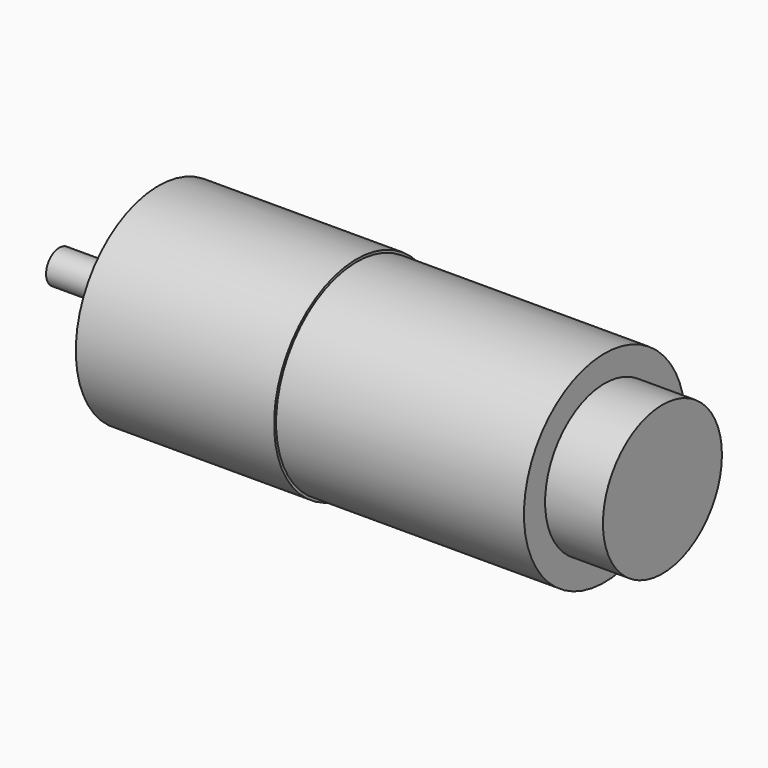
from build123d import *

# Parameters (mm, degrees)
SKETCH_R        = 12.5
PAD_DEPTH       = 24
SKETCH001_R     = 12.2
PAD001_DEPTH    = 30
SKETCH002_R     = 3.5
PAD002_DEPTH    = 2.5
SKETCH003_R     = 2
PAD003_DEPTH    = 9.5
SKETCH004_R     = 9
PAD004_DEPTH    = 7
SKETCH009_R     = 1.5
POCKET002_DEPTH = 3


with BuildPart() as part:
    # Sketch → Pad (new body)
    with BuildSketch(Plane.YZ):
        with Locations((20, 20)):
            Circle(SKETCH_R)
    extrude(amount=PAD_DEPTH)

    # Sketch001 (on Face3 of Pad) → Pad001 (join)
    with BuildSketch(Plane.YZ.offset(24)):
        with Locations((20, 20)):
            Circle(SKETCH001_R)
    extrude(amount=PAD001_DEPTH)

    # Sketch002 (on Face2 of Pad001) → Pad002 (join)
    with BuildSketch(Plane(origin=(0, 0, 0), x_dir=(0, 1, 0), z_dir=(-1, 0, 0))):
        with Locations((20, -20)):
            Circle(SKETCH002_R)
    extrude(amount=PAD002_DEPTH)

    # Sketch003 (on Face6 of Pad002) → Pad003 (join)
    with BuildSketch(Plane(origin=(-2.5, 0, 0), x_dir=(0, 1, 0), z_dir=(-1, 0, 0))):
        with Locations((20, -20)):
            Circle(SKETCH003_R)
    extrude(amount=PAD003_DEPTH)

    # Sketch004 (on Face7 of Pad003) → Pad004 (join)
    with BuildSketch(Plane.YZ.offset(54)):
        with Locations((20, 20)):
            Circle(SKETCH004_R)
    extrude(amount=PAD004_DEPTH)

    # Sketch009 (on Face2 of Pad004) → Pocket002 (cut)
    with BuildSketch(Plane(origin=(0, 0, 0), x_dir=(0, 1, 0), z_dir=(-1, 0, 0))):
        with Locations((28.5, -20)):
            Circle(SKETCH009_R)
        with Locations((11.5, -20)):
            Circle(SKETCH009_R)
    extrude(amount=-POCKET002_DEPTH, mode=Mode.SUBTRACT)


solid = part.part
